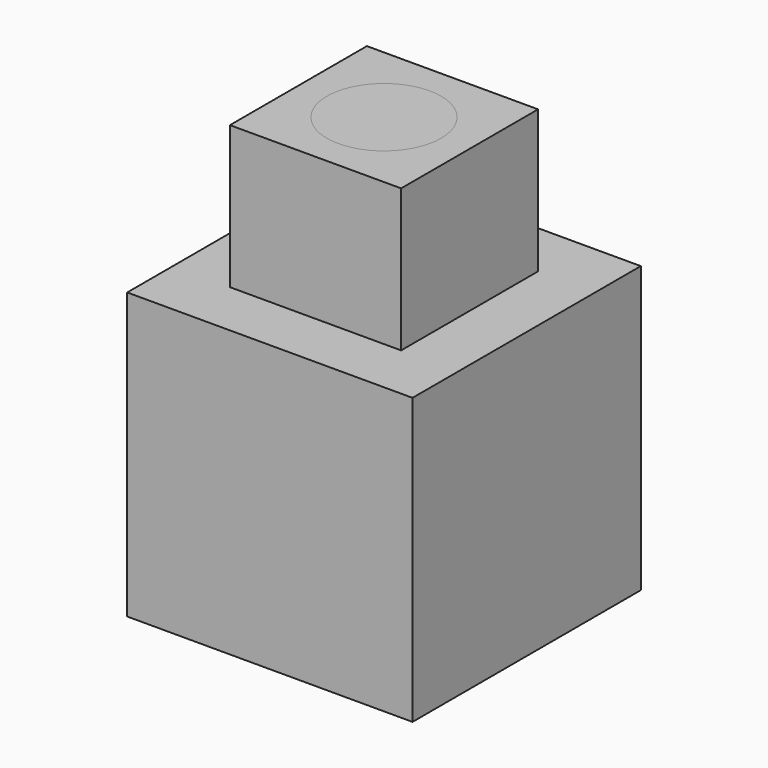
from build123d import *

# Parameters (mm, degrees)
CYLINDER_R        = 2
CYLINDER_DEPTH    = 10
BOX001_W          = 6
BOX001_H          = 14
BOX001_DEPTH      = 10
BOX_W             = 10
BOX_H             = 10
BOX_DEPTH         = 10
BOX003_W          = 6
BOX003_H          = 6
BOX003_DEPTH      = 10
BOX002_W          = 10
BOX002_H          = 10
BOX002_DEPTH      = 10
CYLINDER001_R     = 2
CYLINDER001_DEPTH = 12
BOX004_W          = 10
BOX004_H          = 10
BOX004_DEPTH      = 10
CYLINDER002_R     = 2
CYLINDER002_DEPTH = 12
BOX005_W          = 10
BOX005_H          = 10
BOX005_DEPTH      = 10


with BuildPart() as cylinder:
    # Cylinder → Cylinder (new body)
    with BuildSketch(Plane(origin=(5, 5, -1), x_dir=(1, 0, 0), z_dir=(0, 0, 1))):
        Circle(CYLINDER_R)
    extrude(amount=CYLINDER_DEPTH)


with BuildPart() as cube001:
    # Box001 → Box001 (new body)
    with BuildSketch(Plane(origin=(2, -1, 5), x_dir=(1, 0, 0), z_dir=(0, 0, 1))):
        with Locations((3, 7)):
            Rectangle(BOX001_W, BOX001_H)
    extrude(amount=BOX001_DEPTH)


with BuildPart() as cut001:
    # Box → Box (new body)
    with BuildSketch(Plane.XY):
        with Locations((5, 5)):
            Rectangle(BOX_W, BOX_H)
    extrude(amount=BOX_DEPTH)

    # Cut: cut Cube001
    add(cube001.part, mode=Mode.SUBTRACT)

    # Cut001: cut Cylinder
    add(cylinder.part, mode=Mode.SUBTRACT)


with BuildPart() as cube003:
    # Box003 → Box003 (new body)
    with BuildSketch(Plane(origin=(2, 2, 5), x_dir=(1, 0, 0), z_dir=(0, 0, 1))):
        with Locations((3, 3)):
            Rectangle(BOX003_W, BOX003_H)
    extrude(amount=BOX003_DEPTH)


with BuildPart() as fusion:
    # Box002 → Box002 (new body)
    with BuildSketch(Plane.XY):
        with Locations((5, 5)):
            Rectangle(BOX002_W, BOX002_H)
    extrude(amount=BOX002_DEPTH)

    # Fusion: union Cube003
    add(cube003.part)


with BuildPart() as cylinder001:
    # Cylinder001 → Cylinder001 (new body)
    with BuildSketch(Plane(origin=(5, 5, -1), x_dir=(1, 0, 0), z_dir=(0, 0, 1))):
        Circle(CYLINDER001_R)
    extrude(amount=CYLINDER001_DEPTH)


with BuildPart() as cube_cylinder:
    # Box004 → Box004 (new body)
    with BuildSketch(Plane.XY):
        with Locations((5, 5)):
            Rectangle(BOX004_W, BOX004_H)
    extrude(amount=BOX004_DEPTH)

    # Cut002: cut Cylinder001
    add(cylinder001.part, mode=Mode.SUBTRACT)


with BuildPart() as cylinder002:
    # Cylinder002 → Cylinder002 (new body)
    with BuildSketch(Plane(origin=(5, 5, 3), x_dir=(1, 0, 0), z_dir=(0, 0, 1))):
        Circle(CYLINDER002_R)
    extrude(amount=CYLINDER002_DEPTH)


with BuildPart() as obj1:
    # Box005 → Box005 (new body)
    with BuildSketch(Plane.XY):
        with Locations((5, 5)):
            Rectangle(BOX005_W, BOX005_H)
    extrude(amount=BOX005_DEPTH)

    # Fusion001: union Cylinder002
    add(cylinder002.part)


solid = Compound([cut001.part, fusion.part, cube_cylinder.part, obj1.part])
